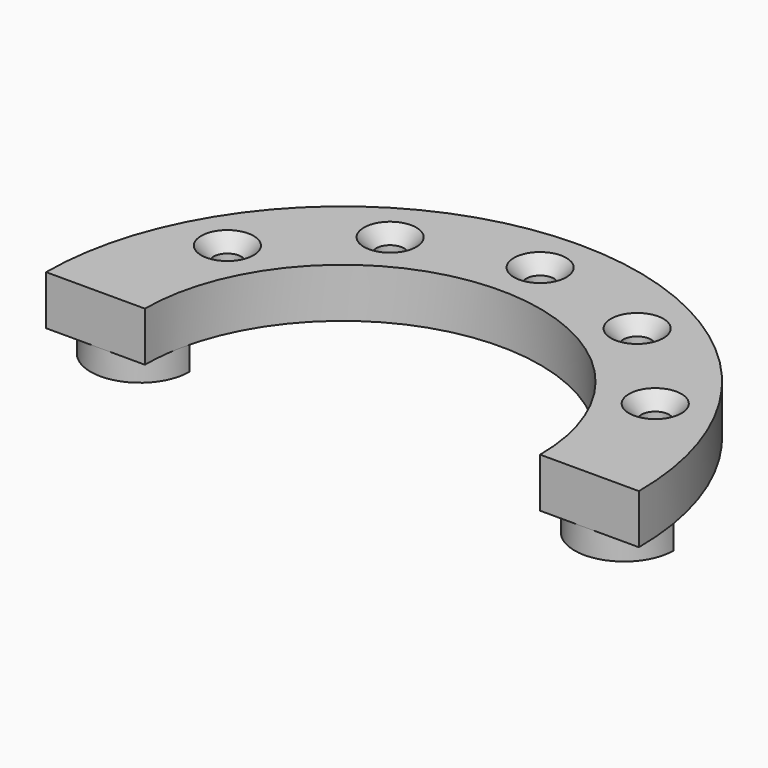
from build123d import *

# Parameters (mm, degrees)
F1_DEPTH       = 12.7
F3_DEPTH       = 6.35
F5_D           = 7.1374
F5_CSINK_D     = 13.4874
F5_CSINK_ANGLE = 82


with BuildPart() as f1:
    # F0 (on Top) → F1 (new body)
    with BuildSketch(Plane.XY):
        with BuildLine():
            Line((-76.2, 0), (-50.8, 0))
            ThreePointArc((-50.8, 0), (0, 50.8), (50.8, 0))
            Line((50.8, 0), (76.2, 0))
            ThreePointArc((76.2, 0), (0, 76.2), (-76.2, 0))
        make_face()
    extrude(amount=F1_DEPTH)

    # F2 (on face) → F3 (join)
    with BuildSketch(Plane(origin=(0, 0, 0), x_dir=(1, 0, 0), z_dir=(0, 0, -1))):
        with BuildLine():
            Line((-62.2170394667, -12.7), (-49.5170394667, -12.7))
            ThreePointArc((-49.5170394667, -12.7), (-62.2170394667, 0), (-74.9170394667, -12.7))
            Line((-74.9170394667, -12.7), (-62.2170394667, -12.7))
        make_face()
        with BuildLine():
            ThreePointArc((74.9170394667, -12.7), (62.2170394667, 0), (49.5170394667, -12.7))
            Line((49.5170394667, -12.7), (62.2170394667, -12.7))
            Line((62.2170394667, -12.7), (74.9170394667, -12.7))
        make_face()
    extrude(amount=F3_DEPTH)

    # F5 (through all)
    with Locations(Plane.XY.offset(12.7)):
        with Locations((-54.9926131403, 31.75), (-31.75, 54.9926131403), (0, 63.5), (31.75, 54.9926131403), (54.9926131403, 31.75)):
            CounterSinkHole(F5_D / 2, F5_CSINK_D / 2, counter_sink_angle=F5_CSINK_ANGLE)


solid = f1.part
